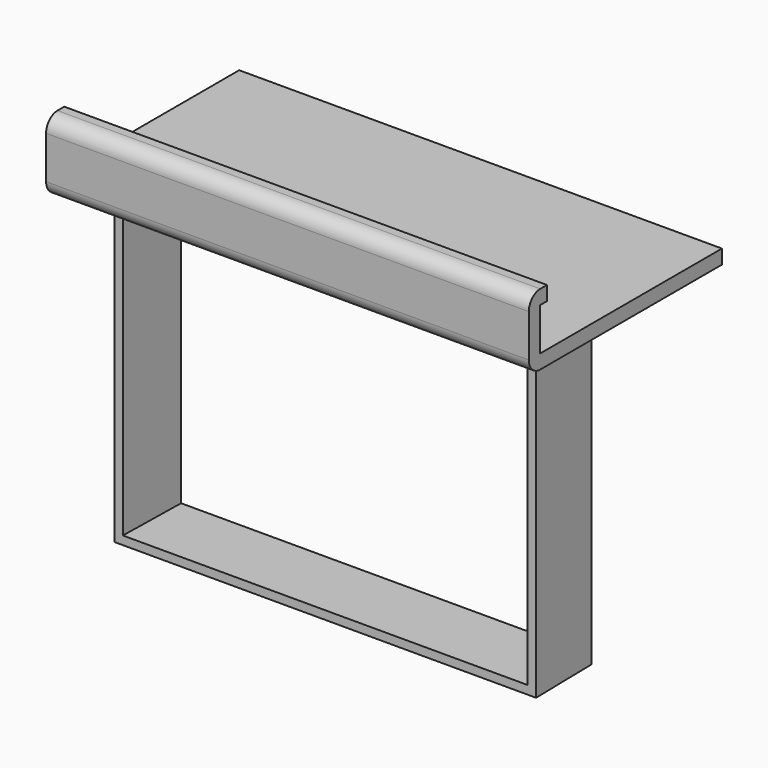
from build123d import *

# Parameters (mm, degrees)
PAD_DEPTH    = 110
THICKNESS_T  = -3
PAD001_DEPTH = 85


with BuildPart() as enclosure:
    # Sketch → Pad (new body)
    with BuildSketch(Plane.XY):
        Polygon((-73.75, 25), (73.75, 25), (74.25, 0), (-74.25, 0), align=None)
    extrude(amount=PAD_DEPTH)

    # Thickness
    thickness_openings = [enclosure.faces().sort_by_distance(p)[0] for p in [
        (0, 0, 55),
        (0, 25, 55),
    ]]
    offset(amount=THICKNESS_T, openings=thickness_openings)


with BuildPart() as support:
    # Sketch001 → Pad001 (new body, symmetric)
    with BuildSketch(Plane(origin=(0, 0, 0), x_dir=(0, -1, 0), z_dir=(-1, 0, 0))):
        with BuildLine():
            Line((-68.378413, 114.976162), (11.621587, 114.976162))
            Line((11.621587, 114.976162), (11.621587, 129.976162))
            Line((11.621587, 129.976162), (8.621586, 129.976162))
            Line((8.621586, 129.976162), (8.621586, 134.976162))
            Line((8.621586, 134.976162), (11.621586, 134.976162))
            ThreePointArc((16.621587, 129.976162), (15.15712, 133.511696), (11.621586, 134.976162))
            Line((16.621587, 129.976162), (16.621587, 114.976162))
            ThreePointArc((11.621587, 109.976162), (15.157121, 111.440628), (16.621587, 114.976162))
            Line((11.621587, 109.976162), (-68.378413, 109.976162))
            Line((-68.378413, 109.976162), (-68.378413, 114.976162))
        make_face()
    extrude(amount=PAD001_DEPTH, both=True)


solid = Compound([enclosure.part, support.part])
